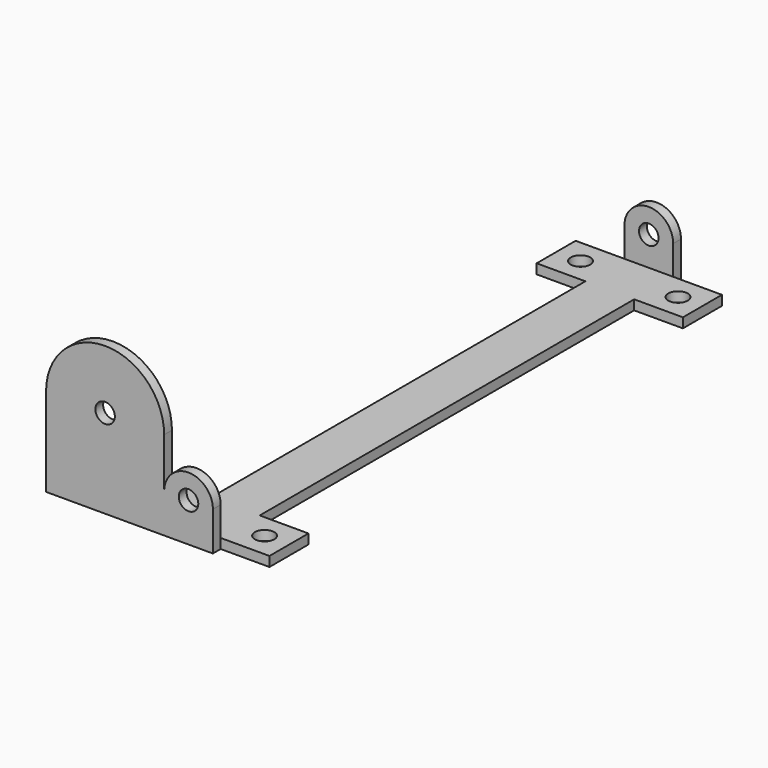
from build123d import *

# Parameters (mm, degrees)
F1_DEPTH  = 10
F2_R      = 10
F3_DEPTH  = 25
F4_W      = 50
F4_H      = 10
F5_DEPTH  = 580
F7_R      = 10
F8_DEPTH  = 40
F12_W     = 50
F12_H     = 50
F12_R     = 10
F13_DEPTH = 10
F14_W     = 50
F14_H     = 10
F14_W_2   = 71.0721209645
F15_DEPTH = 10
F16_DEPTH = 50


with BuildPart() as f1:
    # F0 (on Front) → F1 (new body)
    with BuildSketch(Plane.XZ):
        with BuildLine():
            Line((0, 40), (0, 0))
            Line((0, 0), (50, 0))
            Line((50, 0), (50, 40))
            ThreePointArc((50, 40), (25, 65), (0, 40))
        make_face()
    extrude(amount=F1_DEPTH)

    # F2 (on face) → F3 (cut)
    with BuildSketch(Plane(origin=(0, 0, 0), x_dir=(-1, 0, 0), z_dir=(0, 1, 0))):
        with Locations((-25, 40)):
            Circle(F2_R)
    extrude(amount=-F3_DEPTH, mode=Mode.SUBTRACT)


with BuildPart() as f5:
    # F4 (on face) → F5 (new body)
    with BuildSketch(Plane(origin=(0, 0, 0), x_dir=(-1, 0, 0), z_dir=(0, 1, 0))):
        with Locations((-25, 5)):
            Rectangle(F4_W, F4_H)
    extrude(amount=F5_DEPTH)


with BuildPart() as f6_1:
    # F6: copy of F1
    add(f1.part.moved(Location((0, 590, 0))))


with BuildPart() as f8:
    # F7 (on face) → F8 (new body)
    with BuildSketch(Plane.XZ.offset(10)):
        with Locations((25, 0)):
            Circle(F7_R)
    extrude(amount=-F8_DEPTH)


with BuildPart() as f9_1:
    # F9: copy of F8
    add(f8.part.moved(Location((0, 560, 0))))


with BuildPart() as f1_1:
    add(f1.part)

    add(f5.part)  # F13 merges F5

    add(f6_1.part)  # F13 merges F6_1
    # F12 (on face) → F13 (join)
    with BuildSketch(Plane.XY.offset(10)):
        with Locations((-25, 25)):
            Rectangle(F12_W, F12_H)
        with Locations((-25, 25)):
            Circle(F12_R, mode=Mode.SUBTRACT)
        with Locations((-25, 555)):
            Rectangle(F12_W, F12_H)
        with Locations((-25, 555)):
            Circle(F12_R, mode=Mode.SUBTRACT)
        with Locations((75, 25)):
            Rectangle(F12_W, F12_H)
        with Locations((75, 25)):
            Circle(F12_R, mode=Mode.SUBTRACT)
        with Locations((75, 555)):
            Rectangle(F12_W, F12_H)
        with Locations((75, 555)):
            Circle(F12_R, mode=Mode.SUBTRACT)
    extrude(amount=-F13_DEPTH)

    # F14 (on face) → F15 (join)
    with BuildSketch(Plane.XZ):
        with Locations((-25, 5)):
            Rectangle(F14_W, F14_H)
        with Locations((-85.5360604823, 5)):
            Rectangle(F14_W_2, F14_H)
        with BuildLine():
            Line((-121.0721209645, 10), (-50, 10))
            Line((-50, 10), (0, 10))
            Line((0, 10), (0, 90.9955129027))
            ThreePointArc((0, 90.9955129027), (-60.5360604823, 30.4594524205), (-121.0721209645, 90.9955129027))
            Line((-121.0721209645, 90.9955129027), (-121.0721209645, 10))
        make_face()
        with BuildLine():
            ThreePointArc((0, 90.9955129027), (-60.5360604823, 151.531573385), (-121.0721209645, 90.9955129027))
            Line((-121.0721209645, 90.9955129027), (-70.5360604823, 90.9955129027))
            ThreePointArc((-70.5360604823, 90.9955129027), (-60.5360604823, 100.9955129027), (-50.5360604823, 90.9955129027))
            Line((-50.5360604823, 90.9955129027), (0, 90.9955129027))
        make_face()
        with BuildLine():
            Line((-70.5360604823, 90.9955129027), (-121.0721209645, 90.9955129027))
            ThreePointArc((-121.0721209645, 90.9955129027), (-60.5360604823, 30.4594524205), (0, 90.9955129027))
            Line((0, 90.9955129027), (-50.5360604823, 90.9955129027))
            ThreePointArc((-50.5360604823, 90.9955129027), (-60.5360604823, 80.9955129027), (-70.5360604823, 90.9955129027))
        make_face()
    extrude(amount=F15_DEPTH)

    # F14 (on face) → F16 (join)
    with BuildSketch(Plane.XZ):
        with Locations((-85.5360604823, 5)):
            Rectangle(F14_W_2, F14_H)
    extrude(amount=-F16_DEPTH)


solid = f1_1.part
